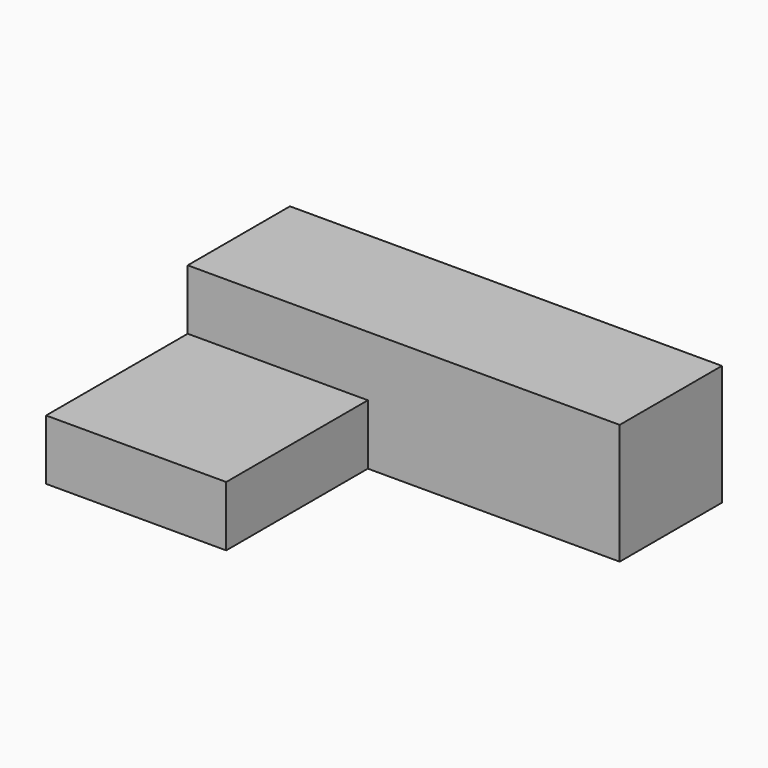
from build123d import *

# Parameters (mm, degrees)
F0_W     = 104.5459136367
F0_H     = 53.0430674553
F0_W_2   = 74.7748240829
F1_DEPTH = 50
F0_H_2   = 73.4916776419
F2_DEPTH = 25


with BuildPart() as f1:
    # F0 (on Top) → F1 (new body)
    with BuildSketch(Plane.XY):
        with Locations((37.3874120414, 0)):
            Rectangle(F0_W, F0_H)
        with Locations((-52.2729568183, 0)):
            Rectangle(F0_W_2, F0_H)
    extrude(amount=F1_DEPTH)

    # F0 (on Top) → F2 (join)
    with BuildSketch(Plane.XY):
        with Locations((-52.2729568183, -63.2673725486)):
            Rectangle(F0_W_2, F0_H_2)
    extrude(amount=F2_DEPTH)


solid = f1.part
